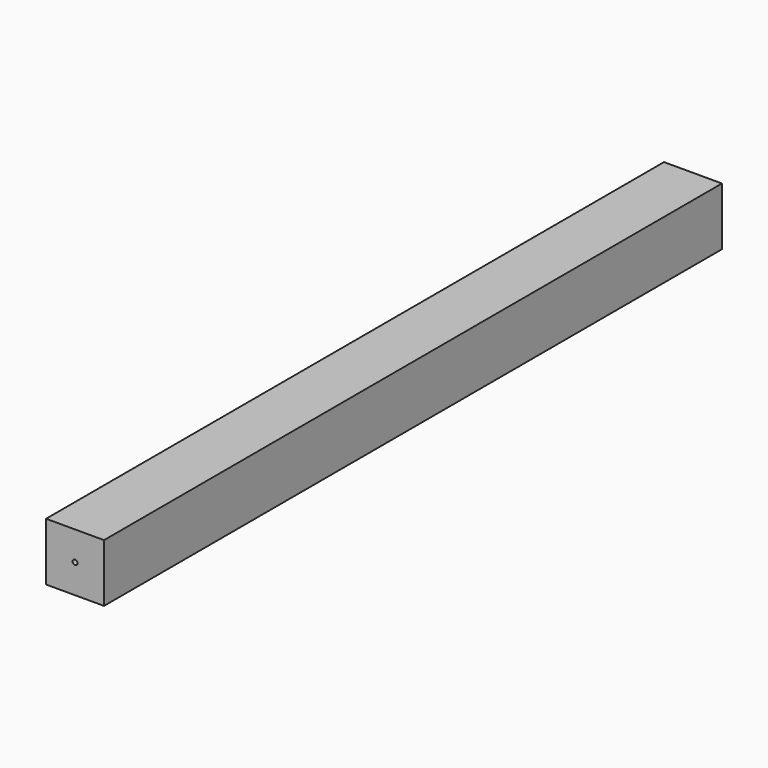
from build123d import *

# Parameters (mm, degrees)
F3_W           = 60
F3_H           = 60
F4_DEPTH       = 800
F7_D           = 5
F7_DEPTH       = 12
F7_TIP         = 1.5021515476
F7_ON_F5_D     = 5
F7_ON_F5_DEPTH = 12
F7_ON_F5_TIP   = 1.5021515476


with BuildPart() as f4:
    # F3 (on Front) → F4 (new body)
    with BuildSketch(Plane.XZ):
        with Locations((30, 30)):
            Rectangle(F3_W, F3_H)
    extrude(amount=F4_DEPTH)

    # F7
    with Locations(Plane.XZ.offset(800)):
        with Locations((30, 30)):
            Hole(F7_D / 2, depth=F7_DEPTH)
            with Locations((0, 0, -(F7_DEPTH + F7_TIP / 2))):  # 118° drill point
                Cone(0, F7_D / 2, F7_TIP, mode=Mode.SUBTRACT)

    # F7 on F5
    with Locations(Plane(origin=(0, 0, 0), x_dir=(-1, 0, 0), z_dir=(0, 1, 0))):
        with Locations((-30, 30)):
            Hole(F7_ON_F5_D / 2, depth=F7_ON_F5_DEPTH)
            with Locations((0, 0, -(F7_ON_F5_DEPTH + F7_ON_F5_TIP / 2))):  # 118° drill point
                Cone(0, F7_ON_F5_D / 2, F7_ON_F5_TIP, mode=Mode.SUBTRACT)


solid = f4.part
